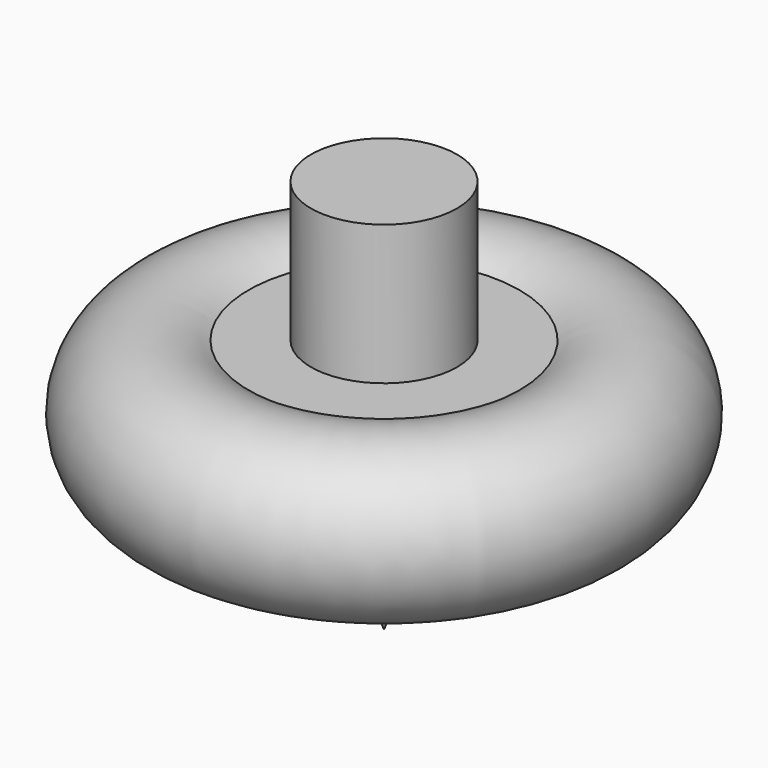
from build123d import *

# Parameters (mm, degrees)
F1_FACE_R = 3.641321
F2_DEPTH  = 50.8


with BuildPart() as f1:
    # F0 (on Front) → F1 (revolve)
    with BuildSketch(Plane.XZ):
        with BuildLine():
            ThreePointArc((0, 0), (3.352927, 4.346186), (8.701964, 5.578767))
            ThreePointArc((8.701964, 5.578767), (13.010036, 10.585916), (6.753427, 12.703906))
            Line((6.753427, 12.703906), (3.641321, 12.703906))
            Line((3.641321, 12.703906), (3.641321, 19.662142))
            Line((3.641321, 19.662142), (0, 19.662142))
            Line((0, 19.662142), (0, 0))
        make_face()
    revolve(axis=Axis((0, 0, 9.831071), (0, 0, -1)))

    # F1_face (on face) → F2 (cut)
    with BuildSketch(Plane.XY.offset(19.662142)):
        Circle(F1_FACE_R)
    extrude(amount=F2_DEPTH, mode=Mode.SUBTRACT)


solid = f1.part
